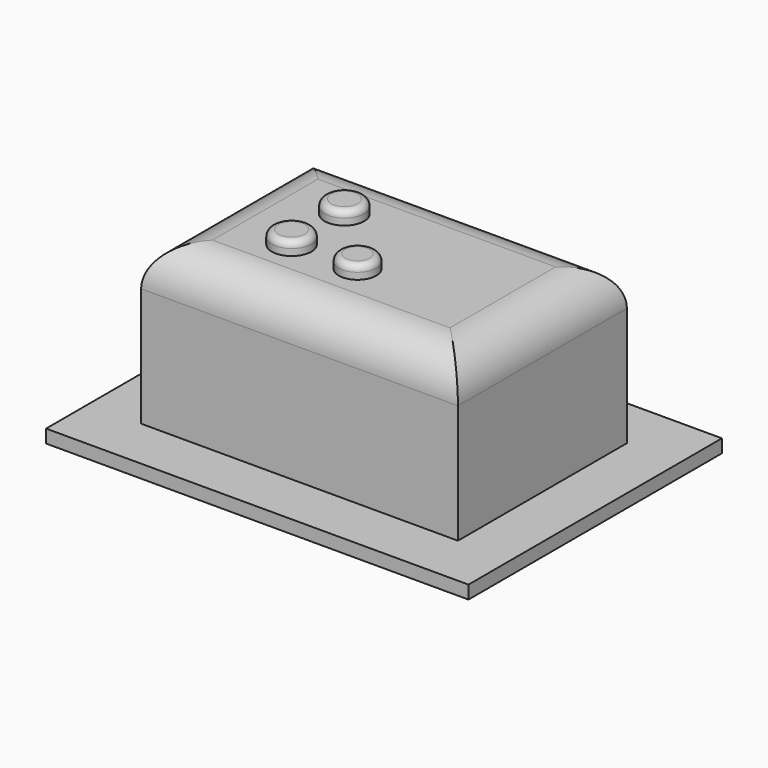
from build123d import *

# Parameters (mm, degrees)
SKETCH_W     = 16
SKETCH_H     = 12
PAD_DEPTH    = 0.5
SKETCH001_W  = 12
SKETCH001_H  = 8
PAD001_DEPTH = 6
FILLET_R     = 1.5
SKETCH002_R  = 0.75
PAD002_DEPTH = 0.5
FILLET001_R  = 0.25
SKETCH003_R  = 0.709805
PAD003_DEPTH = 0.5
FILLET002_R  = 0.25
SKETCH004_R  = 0.75
PAD004_DEPTH = 0.5
FILLET003_R  = 0.25


with BuildPart() as pad:
    # Sketch → Pad (new body)
    with BuildSketch(Plane.XY):
        with Locations((8, 6)):
            Rectangle(SKETCH_W, SKETCH_H)
    extrude(amount=PAD_DEPTH)


with BuildPart() as fillet_body:
    # Sketch001 → Pad001 (new body)
    with BuildSketch(Plane.XY.offset(0.5)):
        with Locations((8, 6)):
            Rectangle(SKETCH001_W, SKETCH001_H)
    extrude(amount=PAD001_DEPTH)

    # Fillet
    fillet_edges = [fillet_body.edges().sort_by_distance(p)[0] for p in [
        (8, 2, 6.5),
        (14, 6, 6.5),
        (8, 10, 6.5),
        (2, 6, 6.5),
    ]]
    fillet(fillet_edges, radius=FILLET_R)


with BuildPart() as fillet001:
    # Sketch002 → Pad002 (new body)
    with BuildSketch(Plane.XY.offset(6.5)):
        with Locations((5.5, 4.75)):
            Circle(SKETCH002_R)
    extrude(amount=PAD002_DEPTH)

    # Fillet001
    fillet001_edges = [fillet001.edges().sort_by_distance(p)[0] for p in [
        (4.75, 4.75, 7),
    ]]
    fillet(fillet001_edges, radius=FILLET001_R)


with BuildPart() as fillet002:
    # Sketch003 → Pad003 (new body)
    with BuildSketch(Plane.XY.offset(6.5)):
        with Locations((8, 4.75)):
            Circle(SKETCH003_R)
    extrude(amount=PAD003_DEPTH)

    # Fillet002
    fillet002_edges = [fillet002.edges().sort_by_distance(p)[0] for p in [
        (7.290195, 4.75, 7),
    ]]
    fillet(fillet002_edges, radius=FILLET002_R)


with BuildPart() as fillet003:
    # Sketch004 → Pad004 (new body)
    with BuildSketch(Plane.XY.offset(6.5)):
        with Locations((5.5, 7.25)):
            Circle(SKETCH004_R)
    extrude(amount=PAD004_DEPTH)

    # Fillet003
    fillet003_edges = [fillet003.edges().sort_by_distance(p)[0] for p in [
        (4.75, 7.25, 7),
    ]]
    fillet(fillet003_edges, radius=FILLET003_R)


solid = Compound([pad.part, fillet_body.part, fillet001.part, fillet002.part, fillet003.part])
